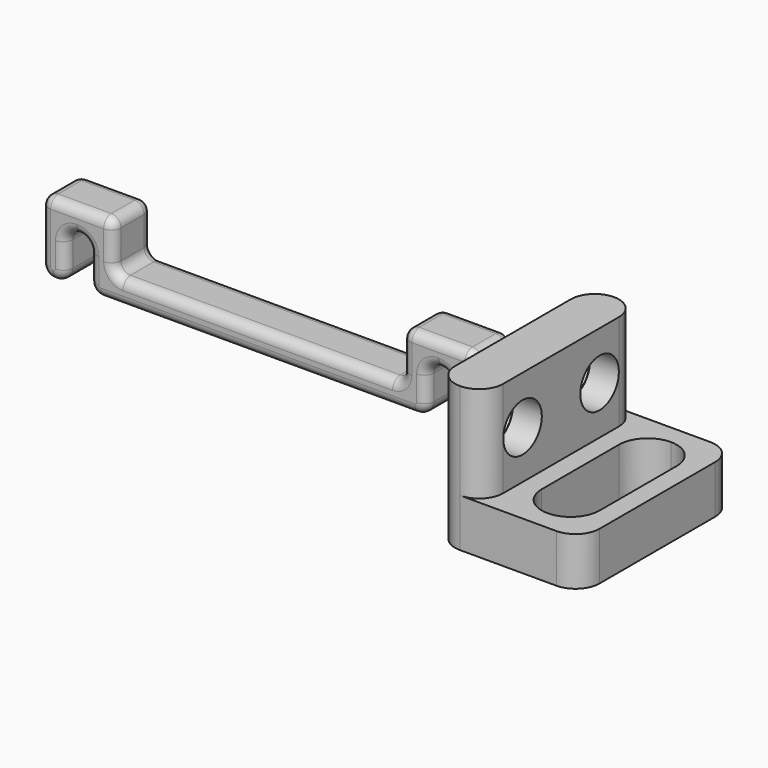
from build123d import *

# Parameters (mm, degrees)
SKETCH_W        = 20
SKETCH_H        = 15
PAD_DEPTH       = 5
SKETCH001_W     = 20
SKETCH001_H     = 5
PAD001_DEPTH    = 10
SKETCH002_W     = 16
SKETCH002_H     = 6
POCKET_DEPTH    = 5
SKETCH003_R     = 1.7
POCKET001_DEPTH = 5
SKETCH005_R     = 2.5
POCKET002_DEPTH = 3
FILLET_R        = 2.99
FILLET001_R     = 2.49
CHAMFER_SIZE    = 0.75
PAD002_DEPTH    = 5
FILLET002_R     = 1.2
FILLET003_R     = 1.2
FILLET004_R     = 1.2
FILLET005_R     = 1
FILLET006_R     = 1
FILLET007_R     = 1


with BuildPart() as body:
    # Sketch → Pad (new body)
    with BuildSketch(Plane.YZ):
        Rectangle(SKETCH_W, SKETCH_H)
    extrude(amount=PAD_DEPTH)

    # Sketch001 (on Face6 of Pad) → Pad001 (join)
    with BuildSketch(Plane.YZ.offset(5)):
        with Locations((0, -5)):
            Rectangle(SKETCH001_W, SKETCH001_H)
    extrude(amount=PAD001_DEPTH)

    # Sketch002 (on Face4 of Pad001) → Pocket (cut)
    with BuildSketch(Plane(origin=(0, 0, -2.5), x_dir=(0, -1, 0), z_dir=(0, 0, 1))):
        with Locations((0, 10)):
            Rectangle(SKETCH002_W, SKETCH002_H)
    extrude(amount=-POCKET_DEPTH, mode=Mode.SUBTRACT)

    # Sketch003 (on Face11 of Pocket) → Pocket001 (cut)
    with BuildSketch(Plane.YZ.offset(5)):
        with Locations((-5, 2.5)):
            Circle(SKETCH003_R)
        with Locations((5, 2.5)):
            Circle(SKETCH003_R)
    extrude(amount=-POCKET001_DEPTH, mode=Mode.SUBTRACT)

    # Sketch005 (on Face14 of Pocket001) → Pocket002 (cut)
    with BuildSketch(Plane.YZ.offset(5)):
        with Locations((-5, 2.5)):
            Circle(SKETCH005_R)
        with Locations((5, 2.5)):
            Circle(SKETCH005_R)
    extrude(amount=-POCKET002_DEPTH, mode=Mode.SUBTRACT)

    # Fillet
    fillet_edges = [body.edges().sort_by_distance(p)[0] for p in [
        (7, 8, -5),
        (13, 8, -5),
        (7, -8, -5),
        (13, -8, -5),
    ]]
    fillet(fillet_edges, radius=FILLET_R)

    # Fillet001
    fillet001_edges = [body.edges().sort_by_distance(p)[0] for p in [
        (15, 10, -5),
        (15, -10, -5),
        (0, -10, 0),
        (5, -10, 2.5),
        (5, 10, 2.5),
        (0, 10, 0),
    ]]
    fillet(fillet001_edges, radius=FILLET001_R)

    # Chamfer
    chamfer_edges = [body.edges().sort_by_distance(p)[0] for p in [
        (2, 3.3, 2.5),
        (2, -6.7, 2.5),
    ]]
    chamfer(chamfer_edges, length=CHAMFER_SIZE)


with BuildPart() as body001:
    # Sketch006 → Pad002 (new body)
    with BuildSketch(Plane.XZ):
        Polygon((0, 0), (0, 7.5), (-7.5, 7.5), (-7.5, 2.5), (-37.5, 2.5), (-37.5, 7.5), (-45, 7.5), (-45, 0), (-42.5, 0), (-42.5, 5), (-40, 5), (-40, 0), (-23.02, 0), (-11.49, 0), (-5, 0), (-5, 5), (-2.5, 5), (-2.5, 0), align=None)
    extrude(amount=PAD002_DEPTH)

    # Fillet002
    fillet002_edges = [body001.edges().sort_by_distance(p)[0] for p in [
        (-40, -2.5, 5),
        (-42.5, -2.5, 5),
    ]]
    fillet(fillet002_edges, radius=FILLET002_R)

    # Fillet003
    fillet003_edges = [body001.edges().sort_by_distance(p)[0] for p in [
        (-5, -2.5, 5),
        (-2.5, -2.5, 5),
    ]]
    fillet(fillet003_edges, radius=FILLET003_R)

    # Fillet004
    fillet004_edges = [body001.edges().sort_by_distance(p)[0] for p in [
        (-45, -2.5, 0),
        (-42.5, -2.5, 0),
        (-40, -2.5, 0),
        (-5, -2.5, 0),
        (-2.5, -2.5, 0),
        (0, -2.5, 0),
    ]]
    fillet(fillet004_edges, radius=FILLET004_R)

    # Fillet005
    fillet005_edges = [body001.edges().sort_by_distance(p)[0] for p in [
        (-45, -2.5, 7.5),
        (-37.5, -2.5, 7.5),
        (-37.5, -2.5, 2.5),
        (-7.5, -2.5, 2.5),
        (-7.5, -2.5, 7.5),
        (0, -2.5, 7.5),
    ]]
    fillet(fillet005_edges, radius=FILLET005_R)

    # Fillet006
    fillet006_edges = [body001.edges().sort_by_distance(p)[0] for p in [
        (-45, -5, 3.85),
    ]]
    fillet(fillet006_edges, radius=FILLET006_R)

    # Fillet007
    fillet007_edges = [body001.edges().sort_by_distance(p)[0] for p in [
        (-45, 0, 3.85),
    ]]
    fillet(fillet007_edges, radius=FILLET007_R)


solid = Compound([body.part, body001.part])
